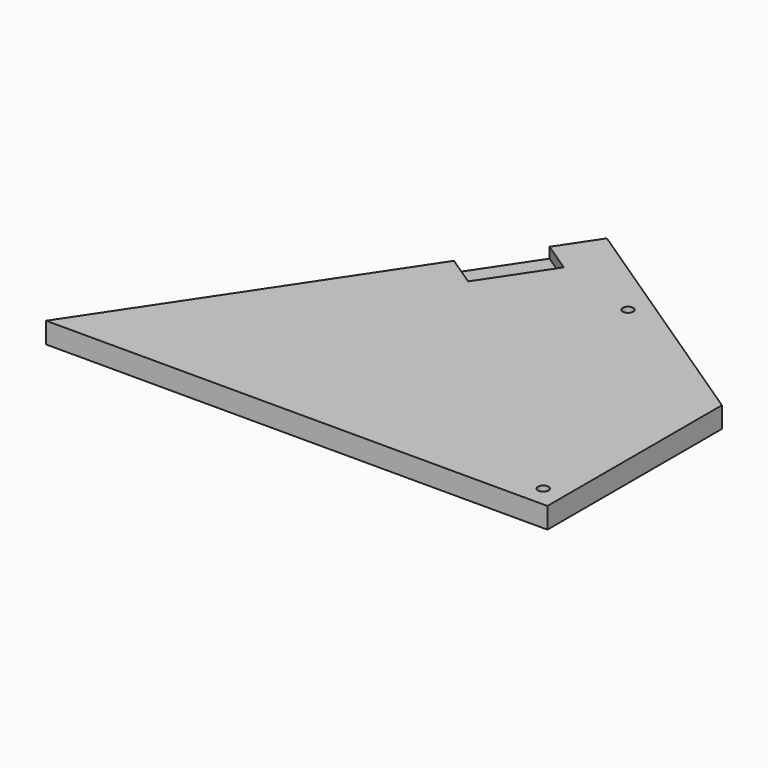
from build123d import *

# Parameters (mm, degrees)
F0_R     = 6.35
F1_DEPTH = 25.4
F2_DEPTH = 12.7


with BuildPart() as f1:
    # F0 (on Top) → F1 (new body)
    with BuildSketch(Plane.XY):
        Polygon((-265.663247, 162.317799), (-491.093407, -175.827441), (118.506593, -175.827441), (118.506593, 89.366577), (-181.126938, 289.122264), (-212.828054, 241.57059), (-175.843418, 216.914166), (-228.678612, 137.661375), align=None)
        with Locations((93.106593, -150.427441)):
            Circle(F0_R, mode=Mode.SUBTRACT)
        with Locations((-73.695377, 186.974223)):
            Circle(F0_R, mode=Mode.SUBTRACT)
    extrude(amount=F1_DEPTH)

    # F0 (on Top) → F2 (join)
    with BuildSketch(Plane.XY):
        Polygon((-265.663247, 162.317799), (-491.093407, -175.827441), (118.506593, -175.827441), (118.506593, 89.366577), (-181.126938, 289.122264), (-212.828054, 241.57059), (-175.843418, 216.914166), (-228.678612, 137.661375), align=None)
        with Locations((93.106593, -150.427441)):
            Circle(F0_R, mode=Mode.SUBTRACT)
        with Locations((-73.695377, 186.974223)):
            Circle(F0_R, mode=Mode.SUBTRACT)
        Polygon((-212.828054, 241.57059), (-265.663247, 162.317799), (-228.678612, 137.661375), (-175.843418, 216.914166), align=None)
    extrude(amount=F2_DEPTH)


solid = f1.part
